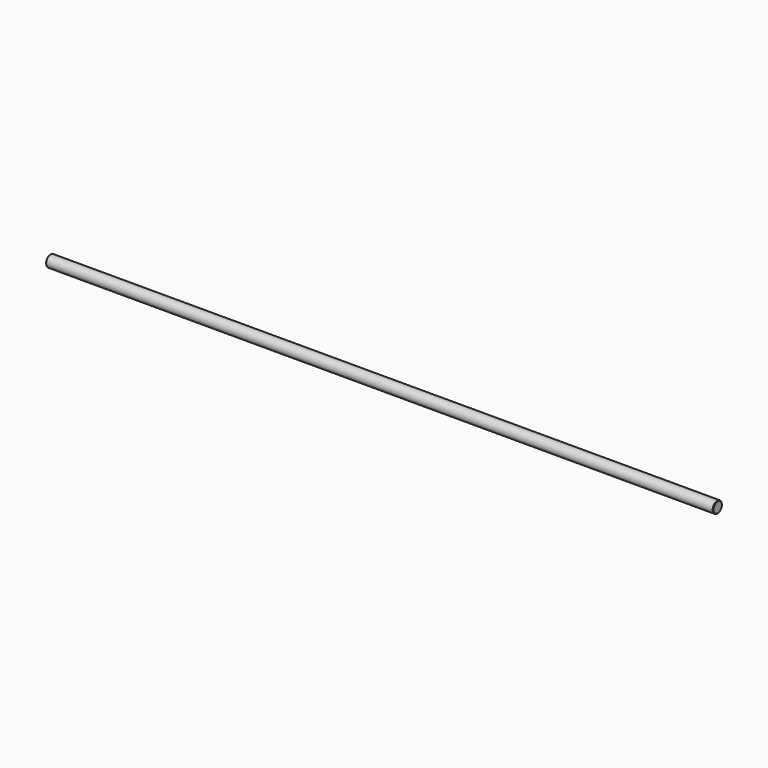
from build123d import *

# Parameters (mm, degrees)
SKETCH_R     = 6
PAD_DEPTH    = 350
CHAMFER_SIZE = 0.5


with BuildPart() as part:
    # Sketch → Pad (new body, symmetric)
    with BuildSketch(Plane.YZ):
        Circle(SKETCH_R)
    extrude(amount=PAD_DEPTH, both=True)

    # Chamfer
    chamfer_edges = [part.edges().sort_by_distance(p)[0] for p in [
        (350, -6, 0),
        (-350, -6, 0),
    ]]
    chamfer(chamfer_edges, length=CHAMFER_SIZE)


solid = part.part
